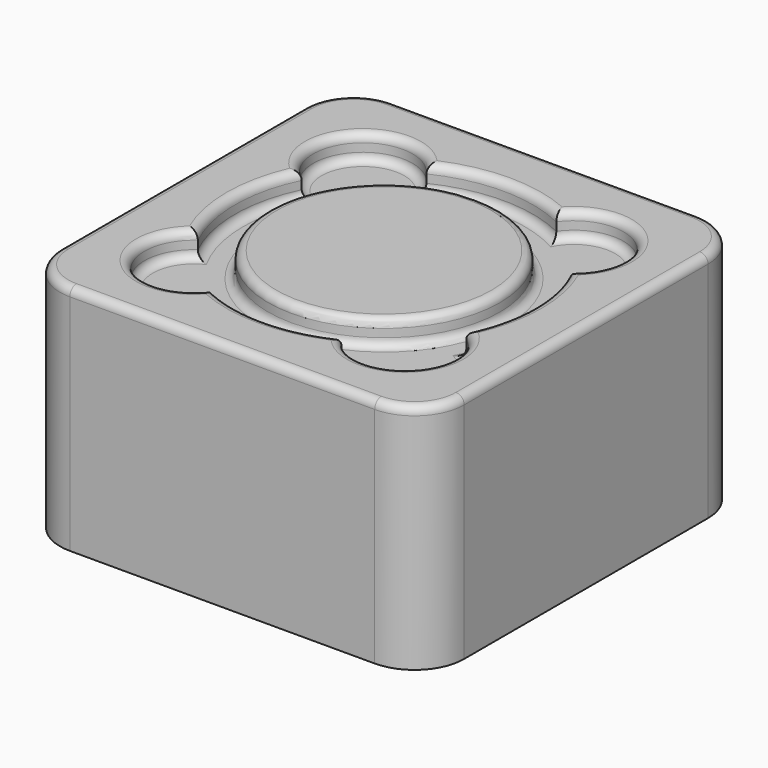
from build123d import *

# Parameters (mm, degrees)
SKETCH015_W  = 12.2
SKETCH015_H  = 12.2
PAD076_DEPTH = 7
SKETCH016_R  = 3.5
POCKET_DEPTH = 0.75
FILLET002_R  = 1.5
FILLET003_R  = 0.25


with BuildPart() as part:
    # Sketch015 (on Face1 of CopyPad002) → Pad076 (new body)
    with BuildSketch(Plane.XY.offset(4)):
        with Locations((3.6, 6.1)):
            Rectangle(SKETCH015_W, SKETCH015_H)
    extrude(amount=PAD076_DEPTH)

    # Sketch016 (on Face6 of Pad076) → Pocket (cut)
    with BuildSketch(Plane.XY.offset(11)):
        with BuildLine():
            ThreePointArc((5.559379, 2.048971), (7.842641, 1.857359), (7.651029, 4.140621))
            ThreePointArc((7.651029, 4.140621), (8.1, 6.1), (7.651029, 8.059379))
            ThreePointArc((7.651029, 8.059379), (7.842641, 10.342641), (5.559379, 10.151029))
            ThreePointArc((5.559379, 10.151029), (3.6, 10.6), (1.640621, 10.151029))
            ThreePointArc((1.640621, 10.151029), (-0.642641, 10.342641), (-0.451029, 8.059379))
            ThreePointArc((-0.451029, 8.059379), (-0.9, 6.1), (-0.451029, 4.140621))
            ThreePointArc((-0.451029, 4.140621), (-0.642641, 1.857359), (1.640621, 2.048971))
            ThreePointArc((1.640621, 2.048971), (3.6, 1.6), (5.559379, 2.048971))
        make_face()
        with Locations((3.6, 6.1)):
            Circle(SKETCH016_R, mode=Mode.SUBTRACT)
    extrude(amount=-POCKET_DEPTH, mode=Mode.SUBTRACT)

    # Fillet002
    fillet002_edges = [part.edges().sort_by_distance(p)[0] for p in [
        (9.7, 0, 7.5),
        (-2.5, 0, 7.5),
        (9.7, 12.2, 7.5),
        (-2.5, 12.2, 7.5),
    ]]
    fillet(fillet002_edges, radius=FILLET002_R)

    # Fillet003
    fillet003_edges = [part.edges().sort_by_distance(p)[0] for p in [
        (7.842641, 1.857359, 10.25),
        (8.1, 6.1, 10.25),
        (7.842641, 10.342641, 10.25),
        (3.6, 10.6, 10.25),
        (-0.642641, 10.342641, 10.25),
        (-0.9, 6.1, 10.25),
        (-0.642641, 1.857359, 10.25),
        (3.6, 1.6, 10.25),
        (0.1, 6.1, 10.25),
        (0.1, 6.1, 11),
        (3.6, 0, 11),
        (-2.06066, 0.43934, 11),
        (9.26066, 0.43934, 11),
        (-2.5, 6.1, 11),
        (9.7, 6.1, 11),
        (-2.06066, 11.76066, 11),
        (9.26066, 11.76066, 11),
        (3.6, 12.2, 11),
        (7.842641, 1.857359, 11),
        (8.1, 6.1, 11),
        (7.842641, 10.342641, 11),
        (3.6, 10.6, 11),
        (-0.642641, 10.342641, 11),
        (-0.9, 6.1, 11),
        (-0.642641, 1.857359, 11),
        (3.6, 1.6, 11),
    ]]
    fillet(fillet003_edges, radius=FILLET003_R)


solid = part.part
